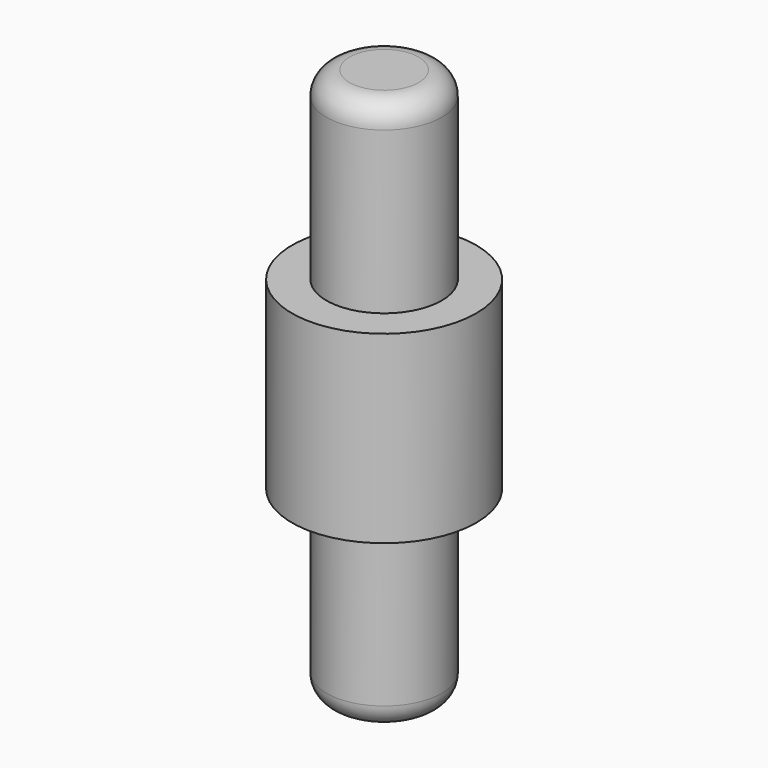
from build123d import *

# Parameters (mm, degrees)
F0_R     = 2.5
F1_DEPTH = 12
F2_DEPTH = 12
F0_R_2   = 4
F3_DEPTH = 4
F4_DEPTH = 4
F5_R     = 1
F6_R     = 2
F7_DEPTH = 4.2
F8_DEPTH = 2.8


with BuildPart() as f1:
    # F0 (on Top) → F1 (new body)
    with BuildSketch(Plane.XY):
        Circle(F0_R)
    extrude(amount=F1_DEPTH)

    # F0 (on Top) → F2 (join)
    with BuildSketch(Plane.XY):
        Circle(F0_R)
    extrude(amount=-F2_DEPTH)

    # F0 (on Top) → F3 (join)
    with BuildSketch(Plane.XY):
        Circle(F0_R_2)
        Circle(F0_R, mode=Mode.SUBTRACT)
    extrude(amount=F3_DEPTH)

    # F0 (on Top) → F4 (join)
    with BuildSketch(Plane.XY):
        Circle(F0_R_2)
        Circle(F0_R, mode=Mode.SUBTRACT)
    extrude(amount=-F4_DEPTH)

    # F5
    f5_edges = [f1.edges().sort_by_distance(p)[0] for p in [
        (-2.5, 0, 12),
        (-2.5, 0, -12),
    ]]
    fillet(f5_edges, radius=F5_R)

    # F6 (on Front) → F7 (cut)
    with BuildSketch(Plane.XZ):
        Circle(F6_R)
    extrude(amount=-F7_DEPTH, mode=Mode.SUBTRACT)

    # F6 (on Front) → F8 (cut)
    with BuildSketch(Plane.XZ):
        Circle(F6_R)
    extrude(amount=F8_DEPTH, mode=Mode.SUBTRACT)


solid = f1.part
